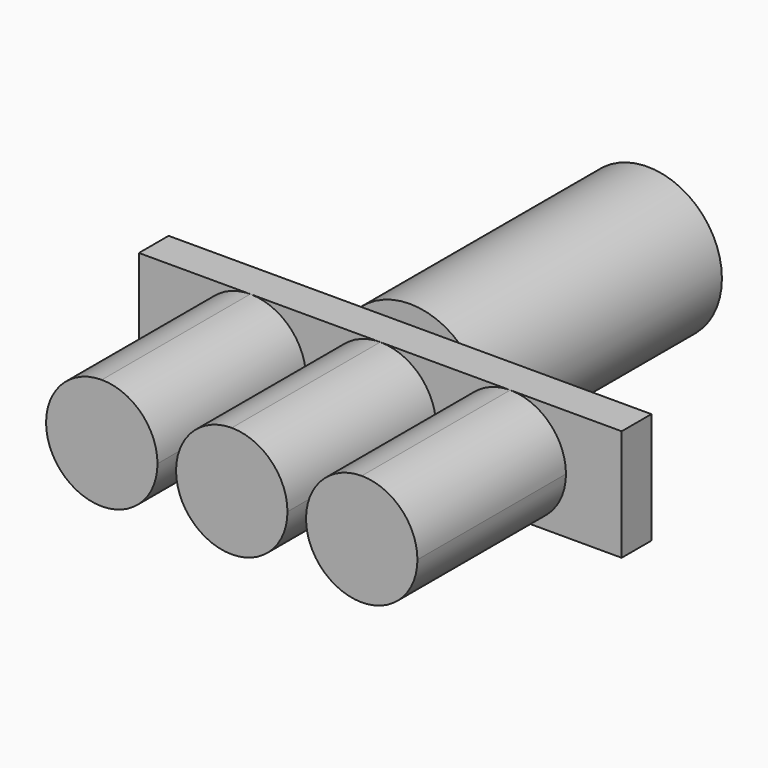
from build123d import *

# Parameters (mm, degrees)
F1_DEPTH = 5
F2_DEPTH = 30
F3_R     = 10
F4_DEPTH = 40


with BuildPart() as f1:
    # F0 (on Front) → F1 (new body)
    with BuildSketch(Plane.XZ):
        with BuildLine():
            Line((17.5, -7.5), (32.5, -7.5))
            Line((32.5, -7.5), (32.5, 7.5))
            Line((32.5, 7.5), (17.5, 7.5))
            ThreePointArc((17.5, 7.5), (22.803301, 5.303301), (25, 0))
            ThreePointArc((25, 0), (22.803301, -5.303301), (17.5, -7.5))
        make_face()
        with BuildLine():
            Line((0, -7.5), (17.5, -7.5))
            ThreePointArc((17.5, -7.5), (12.196699, -5.303301), (10, 0))
            Line((10, 0), (7.5, 0))
            ThreePointArc((7.5, 0), (5.303301, -5.303301), (0, -7.5))
        make_face()
        with BuildLine():
            ThreePointArc((10, 0), (12.196699, -5.303301), (17.5, -7.5))
            ThreePointArc((17.5, -7.5), (22.803301, -5.303301), (25, 0))
            ThreePointArc((25, 0), (22.803301, 5.303301), (17.5, 7.5))
            ThreePointArc((17.5, 7.5), (12.196699, 5.303301), (10, 0))
        make_face()
        with BuildLine():
            Line((-17.5, -7.5), (0, -7.5))
            ThreePointArc((0, -7.5), (-5.303301, -5.303301), (-7.5, 0))
            Line((-7.5, 0), (-10, 0))
            ThreePointArc((-10, 0), (-12.196699, -5.303301), (-17.5, -7.5))
        make_face()
        with BuildLine():
            Line((7.5, 0), (10, 0))
            ThreePointArc((10, 0), (12.196699, 5.303301), (17.5, 7.5))
            Line((17.5, 7.5), (0, 7.5))
            ThreePointArc((0, 7.5), (5.303301, 5.303301), (7.5, 0))
        make_face()
        with BuildLine():
            Line((-32.5, -7.5), (-17.5, -7.5))
            ThreePointArc((-17.5, -7.5), (-25, 0), (-17.5, 7.5))
            Line((-17.5, 7.5), (-32.5, 7.5))
            Line((-32.5, 7.5), (-32.5, -7.5))
        make_face()
        with BuildLine():
            ThreePointArc((-17.5, 7.5), (-25, 0), (-17.5, -7.5))
            ThreePointArc((-17.5, -7.5), (-12.196699, -5.303301), (-10, 0))
            ThreePointArc((-10, 0), (-12.196699, 5.303301), (-17.5, 7.5))
        make_face()
        with BuildLine():
            Line((-10, 0), (-7.5, 0))
            ThreePointArc((-7.5, 0), (-5.303301, 5.303301), (0, 7.5))
            Line((0, 7.5), (-17.5, 7.5))
            ThreePointArc((-17.5, 7.5), (-12.196699, 5.303301), (-10, 0))
        make_face()
    extrude(amount=F1_DEPTH)

    # F0 (on Front) → F2 (join)
    with BuildSketch(Plane.XZ):
        with BuildLine():
            ThreePointArc((-17.5, 7.5), (-25, 0), (-17.5, -7.5))
            ThreePointArc((-17.5, -7.5), (-12.196699, -5.303301), (-10, 0))
            ThreePointArc((-10, 0), (-12.196699, 5.303301), (-17.5, 7.5))
        make_face()
        with BuildLine():
            ThreePointArc((-7.5, 0), (-5.303301, -5.303301), (0, -7.5))
            ThreePointArc((0, -7.5), (5.303301, -5.303301), (7.5, 0))
            ThreePointArc((7.5, 0), (5.303301, 5.303301), (0, 7.5))
            ThreePointArc((0, 7.5), (-5.303301, 5.303301), (-7.5, 0))
        make_face()
        with BuildLine():
            ThreePointArc((10, 0), (12.196699, -5.303301), (17.5, -7.5))
            ThreePointArc((17.5, -7.5), (22.803301, -5.303301), (25, 0))
            ThreePointArc((25, 0), (22.803301, 5.303301), (17.5, 7.5))
            ThreePointArc((17.5, 7.5), (12.196699, 5.303301), (10, 0))
        make_face()
    extrude(amount=F2_DEPTH)

    # F3 (on Front) → F4 (join)
    with BuildSketch(Plane.XZ):
        Circle(F3_R)
    extrude(amount=-F4_DEPTH)


solid = f1.part
